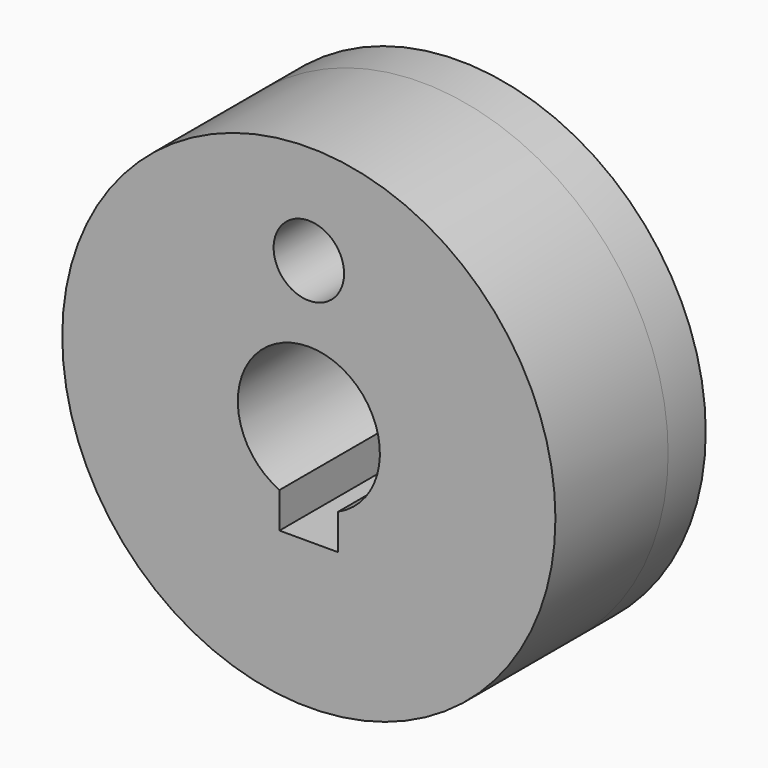
from build123d import *

# Parameters (mm, degrees)
F0_R     = 21
F0_R_2   = 3
F1_DEPTH = 16
F2_DEPTH = 4


with BuildPart() as f1:
    # F0 (on Front) → F1 (new body)
    with BuildSketch(Plane.XZ):
        Circle(F0_R)
        with BuildLine():
            ThreePointArc((-2.5, -5.50931), (0, 6.05), (2.5, -5.50931))
            Line((2.5, -5.50931), (2.5, -8.55))
            Line((2.5, -8.55), (-2.5, -8.55))
            Line((-2.5, -8.55), (-2.5, -5.50931))
        make_face(mode=Mode.SUBTRACT)
        with Locations((0, 12.5)):
            Circle(F0_R_2, mode=Mode.SUBTRACT)
    extrude(amount=F1_DEPTH)


with BuildPart() as f2:
    # F0 (on Front) → F2 (new body)
    with BuildSketch(Plane.XZ):
        Circle(F0_R)
        with BuildLine():
            ThreePointArc((-2.5, -5.50931), (0, 6.05), (2.5, -5.50931))
            Line((2.5, -5.50931), (2.5, -8.55))
            Line((2.5, -8.55), (-2.5, -8.55))
            Line((-2.5, -8.55), (-2.5, -5.50931))
        make_face(mode=Mode.SUBTRACT)
        with Locations((0, 12.5)):
            Circle(F0_R_2, mode=Mode.SUBTRACT)
    extrude(amount=F2_DEPTH)


solid = Compound([f1.part, f2.part])
